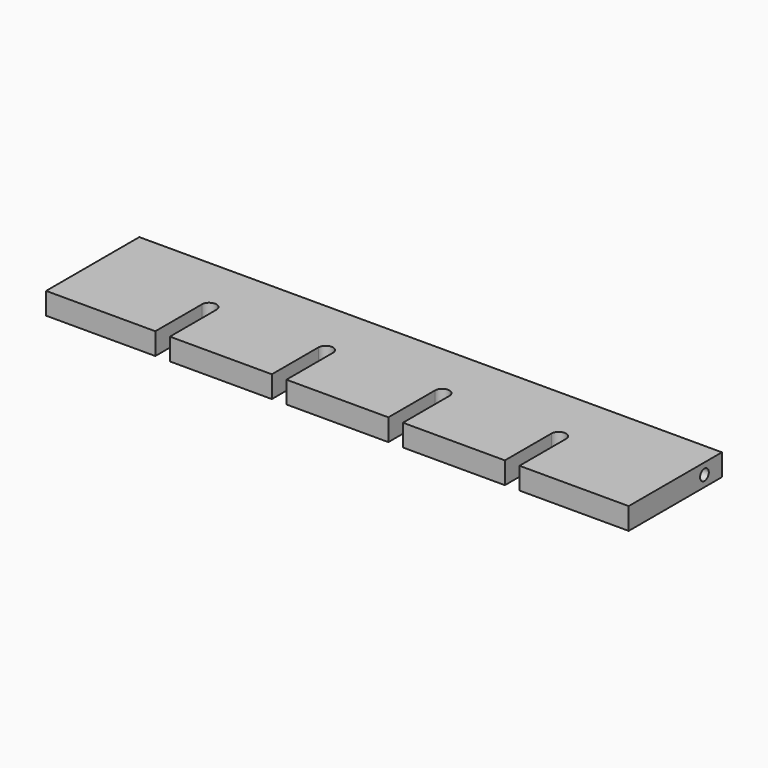
from build123d import *

# Parameters (mm, degrees)
F1_DEPTH = 19.05
F2_R     = 4.7625
F3_DEPTH = 25.4
F4_R     = 4.7625
F5_DEPTH = 25.4


with BuildPart() as f1:
    # F0 (on Top) → F1 (new body)
    with BuildSketch(Plane.XY):
        with BuildLine():
            Line((254, -50.8), (254, 50.8))
            Line((254, 50.8), (-254, 50.8))
            Line((-254, 50.8), (-254, -50.8))
            Line((-254, -50.8), (-158.75, -50.8))
            Line((-158.75, -50.8), (-158.75, 0))
            ThreePointArc((-158.75, 0), (-152.4, 6.35), (-146.05, 0))
            Line((-146.05, 0), (-146.05, -50.8))
            Line((-146.05, -50.8), (-57.15, -50.8))
            Line((-57.15, -50.8), (-57.15, 0))
            ThreePointArc((-57.15, 0), (-50.8, 6.35), (-44.45, 0))
            Line((-44.45, 0), (-44.45, -50.8))
            Line((-44.45, -50.8), (44.45, -50.8))
            Line((44.45, -50.8), (44.45, 0))
            ThreePointArc((44.45, 0), (50.8, 6.35), (57.15, 0))
            Line((57.15, 0), (57.15, -50.8))
            Line((57.15, -50.8), (146.05, -50.8))
            Line((146.05, -50.8), (146.05, 0))
            ThreePointArc((146.05, 0), (152.4, 6.35), (158.75, 0))
            Line((158.75, 0), (158.75, -50.8))
            Line((158.75, -50.8), (254, -50.8))
        make_face()
    extrude(amount=F1_DEPTH)

    # F2 (on face) → F3 (cut)
    with BuildSketch(Plane.YZ.offset(254)):
        with Locations((31.75, 9.525)):
            Circle(F2_R)
    extrude(amount=-F3_DEPTH, mode=Mode.SUBTRACT)

    # F4 (on face) → F5 (cut)
    with BuildSketch(Plane(origin=(-254, 0, 0), x_dir=(0, -1, 0), z_dir=(-1, 0, 0))):
        with Locations((-31.75, 9.525)):
            Circle(F4_R)
        with Locations((31.75, 9.525)):
            Circle(F4_R)
    extrude(amount=-F5_DEPTH, mode=Mode.SUBTRACT)


solid = f1.part
